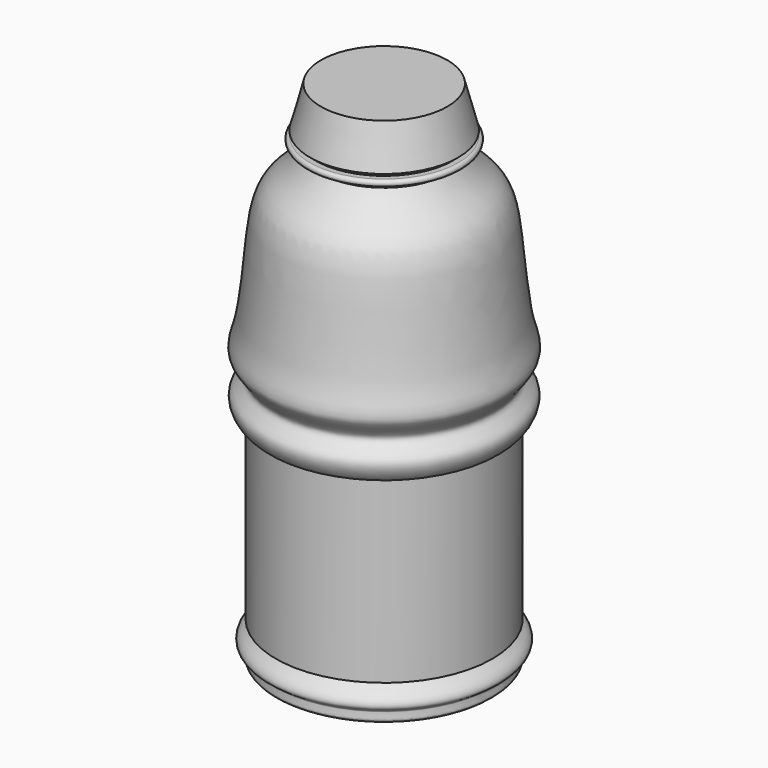
from build123d import *


with BuildPart() as f1:
    # F0 (on Front) → F1 (revolve)
    with BuildSketch(Plane.XZ):
        with BuildLine():
            Line((0, 146.9701826572), (0, 0))
            Line((0, 0), (26.050876826, 0))
            add(Edge.make_bspline(
                [(31.1564318836, 11.2946592271), (30.4103816621, 11.0257263858), (28.6489337491, 10.3907675338), (32.5867407566, 8.7252710068), (33.9692798578, 5.384663025), (30.3090175054, 4.3163711315), (32.2528046709, 0.9272257359), (28.3969767246, 0.3507561293), (26.050876826, 0)],
                knots=[0, 0, 0, 0, 0.1281239945, 0.3025047593, 0.46805567, 0.6265231971, 0.772755968, 1, 1, 1, 1], degree=3))
            Line((31.1564318836, 11.2946592271), (31.1564318836, 62.6480951905))
            add(Edge.make_bspline(
                [(18.3270592242, 130.0549805164), (19.3069478861, 128.667163836), (21.424608394, 125.6650891579), (29.4856945735, 120.6779304074), (31.3403590658, 106.9492067062), (32.9643396986, 85.4221330557), (36.4824914417, 78.8358595862), (28.9593694761, 72.9737602854), (36.4454389477, 69.7781226568), (33.6481915534, 63.5980620984), (31.8742014004, 62.9526804323), (31.1564318836, 62.6480951905)],
                knots=[0, 0, 0, 0, 0.0920483747, 0.2085589951, 0.3582733938, 0.5465809899, 0.6496830588, 0.7506718078, 0.8426365522, 0.9354287374, 1, 1, 1, 1], degree=3))
            Line((18.3270592242, 130.0549805164), (18.3270592242, 132.029697299))
            Line((18.3270592242, 132.029697299), (21.3269386441, 132.029697299))
            ThreePointArc((21.3269386441, 132.029697299), (22.2155619413, 132.9183205962), (21.3269386441, 133.8069438934))
            Line((21.3269386441, 133.8069438934), (19.7587274015, 133.8069438934))
            Line((19.7587274015, 133.8069438934), (19.7587274015, 135.1218819618))
            Line((19.7587274015, 135.1218819618), (21.3269386441, 135.1218819618))
            Line((21.3269386441, 135.1218819618), (18.1673914194, 146.9701826572))
            Line((18.1673914194, 146.9701826572), (0, 146.9701826572))
        make_face()
    revolve(axis=Axis((0, 0, 73.4850913286), (0, 0, 1)))


solid = f1.part
